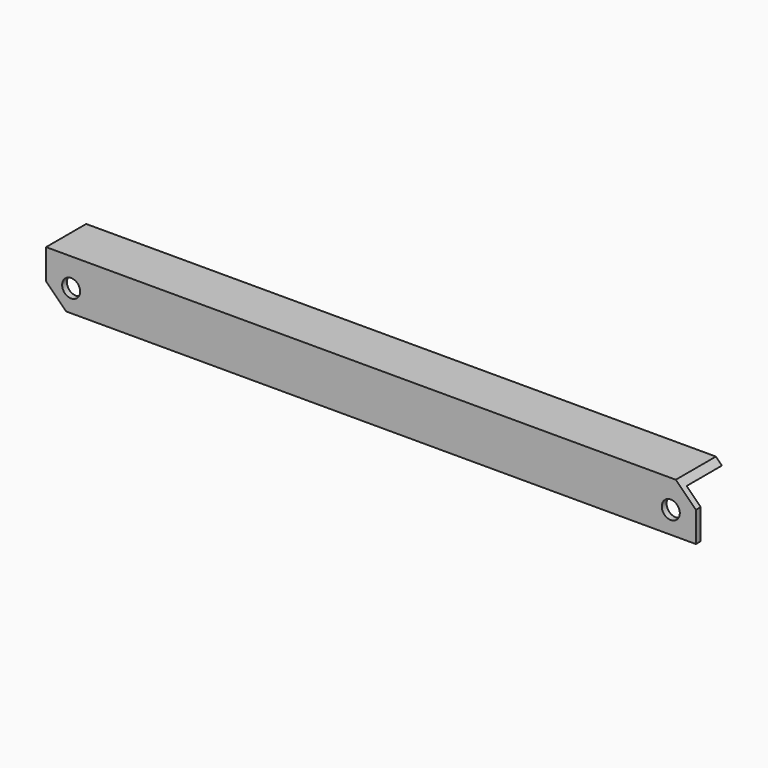
from build123d import *

# Parameters (mm, degrees)
F0_W     = 648
F0_H     = 50
F1_DEPTH = 6
F2_W     = 648
F2_H     = 6
F3_DEPTH = 44
F4_R     = 9
F5_DEPTH = 50.001


with BuildPart() as f1:
    # F0 (on Front) → F1 (new body)
    with BuildSketch(Plane.XZ):
        with Locations((324, 25)):
            Rectangle(F0_W, F0_H)
    extrude(amount=F1_DEPTH)

    # F2 (on face) → F3 (join)
    with BuildSketch(Plane(origin=(0, 0, 0), x_dir=(-1, 0, 0), z_dir=(0, 1, 0))):
        with Locations((-324, 47)):
            Rectangle(F2_W, F2_H)
    extrude(amount=F3_DEPTH)

    # F4 (on face) → F5 (cut, through all)
    with BuildSketch(Plane.XZ.offset(6)):
        Polygon((20, 0), (0, 20), (0, 0), align=None)
        Polygon((628, 50), (648, 30), (648, 50), align=None)
        with Locations((25, 22)):
            Circle(F4_R)
        with Locations((623, 22)):
            Circle(F4_R)
    extrude(amount=-F5_DEPTH, mode=Mode.SUBTRACT)


solid = f1.part
